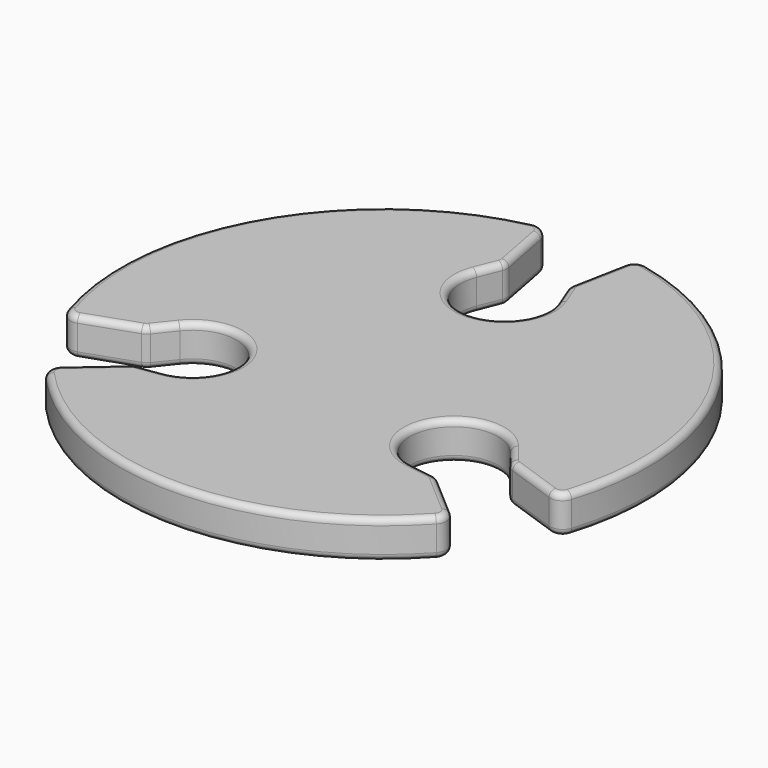
from build123d import *

# Parameters (mm, degrees)
F1_DEPTH = 3
F2_R     = 0.5


with BuildPart() as f1:
    # F0 (on Top) → F1 (new body)
    with BuildSketch(Plane.XY):
        with BuildLine():
            ThreePointArc((3.2530852563, 13.291292498), (0, 8.5), (-3.2530852563, 13.291292498))
            Line((-3.2530852563, 13.291292498), (-2.5661425236, 15.0218711849))
            ThreePointArc((-2.5661425236, 15.0218711849), (-2.5, 15.2970585408), (-2.5136075737, 15.5797558138))
            Line((-2.5136075737, 15.5797558138), (-3.3107724577, 19.7228172813))
            ThreePointArc((-3.3107724577, 19.7228172813), (-3.7429022912, 20.3691314869), (-4.5073983549, 20.5105670344))
            ThreePointArc((-4.5073983549, 20.5105670344), (-18.1865334795, 10.5), (-20.0163712752, -6.3517620369))
            ThreePointArc((-20.0163712752, -6.3517620369), (-19.5116364663, -6.9431172754), (-18.7358470286, -6.9941955861))
            Line((-18.7358470286, -6.9941955861), (-14.7578613554, -5.6160070573))
            ThreePointArc((-14.7578613554, -5.6160070573), (-14.5073009869, -5.4871991834), (-14.3026115891, -5.2936165988))
            Line((-14.3026115891, -5.2936165988), (-13.1371395806, -3.8283917764))
            ThreePointArc((-13.1371395806, -3.8283917764), (-7.3612159322, -4.25), (-9.8840543243, -9.4629007216))
            Line((-9.8840543243, -9.4629007216), (-11.7262507967, -9.7332802076))
            ThreePointArc((-11.7262507967, -9.7332802076), (-11.9976412995, -9.8135927799), (-12.2356605327, -9.9667259209))
            Line((-12.2356605327, -9.9667259209), (-15.4250745709, -12.7286216952))
            ThreePointArc((-15.4250745709, -12.7286216952), (-15.7687341751, -13.4260142115), (-15.5089729203, -14.1588049975))
            ThreePointArc((-15.5089729203, -14.1588049975), (0, -21), (15.5089729203, -14.1588049975))
            ThreePointArc((15.5089729203, -14.1588049975), (15.7687341751, -13.4260142115), (15.4250745709, -12.7286216952))
            Line((15.4250745709, -12.7286216952), (12.2425354572, -9.9726793107))
            ThreePointArc((12.2425354572, -9.9726793107), (12.0057043819, -9.8200916033), (11.735712247, -9.7396166772))
            Line((11.735712247, -9.7396166772), (9.8840543243, -9.4629007216))
            ThreePointArc((9.8840543243, -9.4629007216), (7.3612159322, -4.25), (13.1371395806, -3.8283917764))
            Line((13.1371395806, -3.8283917764), (14.2923933203, -5.2885909773))
            ThreePointArc((14.2923933203, -5.2885909773), (14.4976412995, -5.4834657609), (14.7492681064, -5.6130298929))
            Line((14.7492681064, -5.6130298929), (18.7358470286, -6.9941955861))
            ThreePointArc((18.7358470286, -6.9941955861), (19.5116364663, -6.9431172754), (20.0163712752, -6.3517620369))
            ThreePointArc((20.0163712752, -6.3517620369), (18.1865334795, 10.5), (4.5073983549, 20.5105670344))
            ThreePointArc((4.5073983549, 20.5105670344), (3.7429022912, 20.3691314869), (3.3107724577, 19.7228172813))
            Line((3.3107724577, 19.7228172813), (2.5153258982, 15.588686368))
            ThreePointArc((2.5153258982, 15.588686368), (2.501596605, 15.3072907867), (2.5668993421, 15.033233276))
            Line((2.5668993421, 15.033233276), (3.2530852563, 13.291292498))
        make_face()
    extrude(amount=F1_DEPTH)

    # F2
    f2_edges = [f1.edges().sort_by_distance(p)[0] for p in [
        (3.742902, 20.369131, 3),
        (2.913049, 17.655752, 3),
        (2.501597, 15.307291, 3),
        (2.909992, 14.162263, 3),
        (0, 8.5, 3),
        (-2.909614, 14.156582, 3),
        (-2.5, 15.297059, 3),
        (-2.91219, 17.651287, 3),
        (-3.742902, 20.369131, 3),
        (-18.186533, 10.5, 3),
        (-19.511636, -6.943117, 3),
        (-16.746854, -6.305101, 3),
        (-14.507301, -5.487199, 3),
        (-13.719876, -4.561004, 3),
        (-7.361216, -4.25, 3),
        (-10.805153, -9.59809, 3),
        (-11.997641, -9.813593, 3),
        (-13.830368, -11.347674, 3),
        (-15.768734, -13.426014, 3),
        (0, -21, 3),
        (15.768734, -13.426014, 3),
        (13.833805, -11.350651, 3),
        (12.005704, -9.820092, 3),
        (10.809883, -9.601259, 3),
        (7.361216, -4.25, 3),
        (13.714766, -4.558491, 3),
        (14.497641, -5.483466, 3),
        (16.742558, -6.303613, 3),
        (19.511636, -6.943117, 3),
        (18.186533, 10.5, 3),
        (3.742902, 20.369131, 0),
        (2.913049, 17.655752, 0),
        (2.501597, 15.307291, 0),
        (2.909992, 14.162263, 0),
        (0, 8.5, 0),
        (-2.909614, 14.156582, 0),
        (-2.5, 15.297059, 0),
        (-2.91219, 17.651287, 0),
        (-3.742902, 20.369131, 0),
        (-18.186533, 10.5, 0),
        (-19.511636, -6.943117, 0),
        (-16.746854, -6.305101, 0),
        (-14.507301, -5.487199, 0),
        (-13.719876, -4.561004, 0),
        (-7.361216, -4.25, 0),
        (-10.805153, -9.59809, 0),
        (-11.997641, -9.813593, 0),
        (-13.830368, -11.347674, 0),
        (-15.768734, -13.426014, 0),
        (0, -21, 0),
        (15.768734, -13.426014, 0),
        (13.833805, -11.350651, 0),
        (12.005704, -9.820092, 0),
        (10.809883, -9.601259, 0),
        (7.361216, -4.25, 0),
        (13.714766, -4.558491, 0),
        (14.497641, -5.483466, 0),
        (16.742558, -6.303613, 0),
        (19.511636, -6.943117, 0),
        (18.186533, 10.5, 0),
    ]]
    fillet(f2_edges, radius=F2_R)


solid = f1.part
